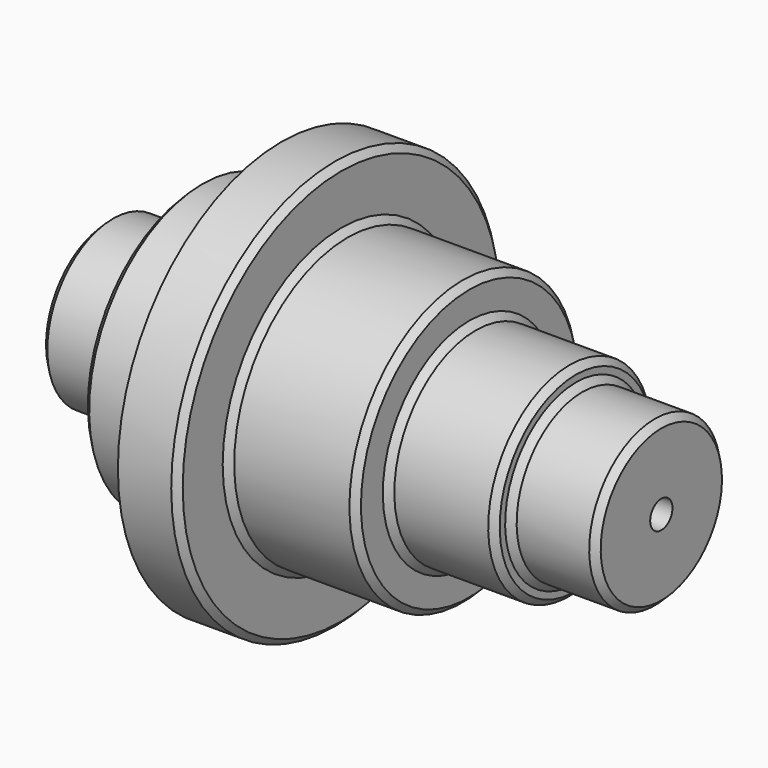
from build123d import *

# Parameters (mm, degrees)
F2_SIZE  = 1.5
F3_SIZE  = 1.5
F4_SIZE  = 1.5
F5_SIZE  = 1.5
F6_SIZE  = 1.5
F7_SIZE  = 1.5
F8_SIZE  = 1.5
F9_SIZE  = 1.5
F10_SIZE = 1.5
F11_SIZE = 1.5
F12_SIZE = 1.5


with BuildPart() as f1:
    # F0 (on Front) → F1 (revolve)
    with BuildSketch(Plane.XZ):
        Polygon((-95.2596903405, -3.4749341272), (-95.2596903405, -19.4749341272), (34.7403096595, -19.4749341272), (34.7403096595, -3.4749341272), (14.7403096595, -3.4749341272), (14.7403096595, 1.1133044657), (-10.2596903405, 1.1133044657), (-10.2596903405, 10.5250658728), (-40.2596903405, 10.5250658728), (-40.2596903405, 25.2309465764), (-54.2596903405, 25.2309465764), (-54.2596903405, 10.5250658728), (-74.2596903405, 10.5250658728), (-74.2596903405, -3.4749341272), align=None)
    revolve(axis=Axis((-30.2943464648, 0, -22.7356459945), (1, 0, 0)))

    # F2
    f2_edges = [f1.edges().sort_by_distance(p)[0] for p in [
        (-95.25969, 0, -41.996358),
    ]]
    chamfer(f2_edges, length=F2_SIZE)

    # F3
    f3_edges = [f1.edges().sort_by_distance(p)[0] for p in [
        (-74.25969, 0, -55.996358),
    ]]
    chamfer(f3_edges, length=F3_SIZE)

    # F4
    f4_edges = [f1.edges().sort_by_distance(p)[0] for p in [
        (-40.25969, 0, -70.702239),
    ]]
    chamfer(f4_edges, length=F4_SIZE)

    # F5
    f5_edges = [f1.edges().sort_by_distance(p)[0] for p in [
        (-10.25969, 0, -55.996358),
    ]]
    chamfer(f5_edges, length=F5_SIZE)

    # F6
    f6_edges = [f1.edges().sort_by_distance(p)[0] for p in [
        (14.74031, 0, -46.584596),
    ]]
    chamfer(f6_edges, length=F6_SIZE)

    # F7
    f7_edges = [f1.edges().sort_by_distance(p)[0] for p in [
        (34.74031, 0, -41.996358),
    ]]
    chamfer(f7_edges, length=F7_SIZE)

    # F8
    f8_edges = [f1.edges().sort_by_distance(p)[0] for p in [
        (-54.25969, 0, -55.996358),
    ]]
    chamfer(f8_edges, length=F8_SIZE)

    # F9
    f9_edges = [f1.edges().sort_by_distance(p)[0] for p in [
        (-74.25969, 0, -41.996358),
    ]]
    chamfer(f9_edges, length=F9_SIZE)

    # F10
    f10_edges = [f1.edges().sort_by_distance(p)[0] for p in [
        (-40.25969, 0, -55.996358),
    ]]
    chamfer(f10_edges, length=F10_SIZE)

    # F11
    f11_edges = [f1.edges().sort_by_distance(p)[0] for p in [
        (-10.25969, 0, -46.584596),
    ]]
    chamfer(f11_edges, length=F11_SIZE)

    # F12
    f12_edges = [f1.edges().sort_by_distance(p)[0] for p in [
        (14.74031, 0, -41.996358),
    ]]
    chamfer(f12_edges, length=F12_SIZE)


solid = f1.part
